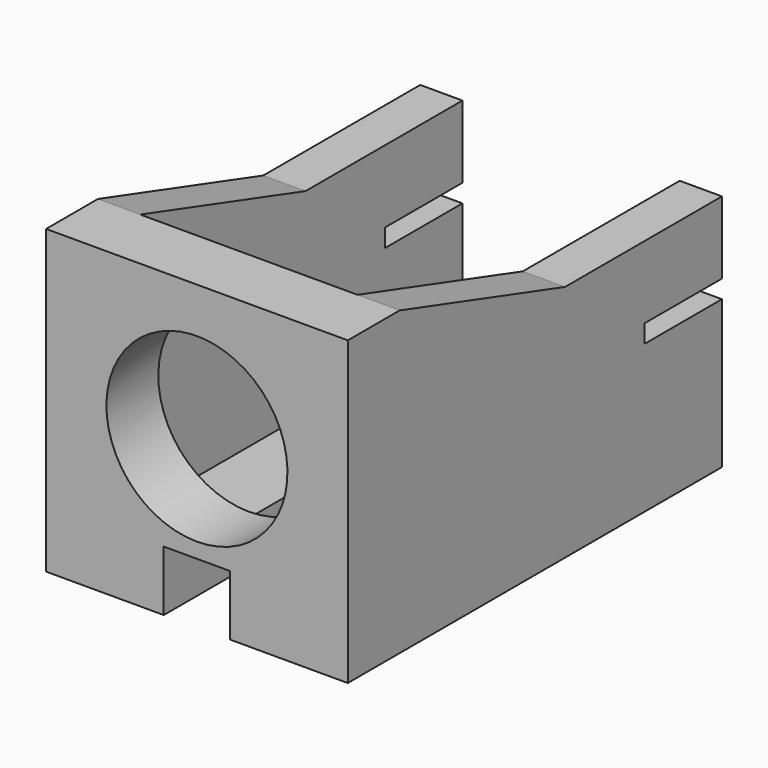
from build123d import *

# Parameters (mm, degrees)
SKETCH_W        = 15.5
SKETCH_H        = 10
PAD_DEPTH       = 10
POCKET_DEPTH    = 9
POCKET001_DEPTH = 10
POCKET002_DEPTH = 8.6
SKETCH002_R     = 3
HOLE_DEPTH      = 25
SKETCH047_W     = 3.2
SKETCH047_H     = 0.6
POCKET004_DEPTH = 10


with BuildPart() as part:
    # Sketch → Pad (new body)
    with BuildSketch(Plane.YZ):
        with Locations((7.75, 5)):
            Rectangle(SKETCH_W, SKETCH_H)
    extrude(amount=PAD_DEPTH)

    # Sketch001 (on Face1 of Pad) → Pocket (cut)
    with BuildSketch(Plane(origin=(0, 0, 0), x_dir=(0, 0, -1), z_dir=(0, -1, 0))):
        Polygon((-2, 6.1), (-2, 3.9), (0, 3.9), (0, 5), (0, 6.1), align=None)
    extrude(amount=-POCKET_DEPTH, mode=Mode.SUBTRACT)

    # Sketch003 → Pocket001 (cut)
    with BuildSketch(Plane.YZ.offset(10)):
        Polygon((2.15, 10), (9, 7.9), (15.5, 7.9), (15.5, 10), align=None)
    extrude(amount=-POCKET001_DEPTH, mode=Mode.SUBTRACT)

    # Sketch045 (on Face4 of Pad) → Pocket002 (cut)
    with BuildSketch(Plane(origin=(0, 0, 10), x_dir=(0, -1, 0), z_dir=(0, 0, 1))):
        Polygon((-15.5, 8.6), (-15.5, 5), (-15.5, 1.4), (-2.15, 1.4), (-2.15, 8.6), align=None)
    extrude(amount=-POCKET002_DEPTH, mode=Mode.SUBTRACT)

    # Sketch002 (on Face1 of Pocket) → Hole (cut)
    with BuildSketch(Plane(origin=(0, 0, 0), x_dir=(0, 0, -1), z_dir=(0, -1, 0))):
        with Locations((-5.5, 5)):
            Circle(SKETCH002_R)
    extrude(amount=-HOLE_DEPTH, mode=Mode.SUBTRACT)

    # Sketch047 (on Face2 of Hole) → Pocket004 (cut)
    with BuildSketch(Plane(origin=(0, 0, 0), x_dir=(0, 1, 0), z_dir=(-1, 0, 0))):
        with Locations((13.9, -5.2)):
            Rectangle(SKETCH047_W, SKETCH047_H)
    extrude(amount=-POCKET004_DEPTH, mode=Mode.SUBTRACT)


solid = part.part
